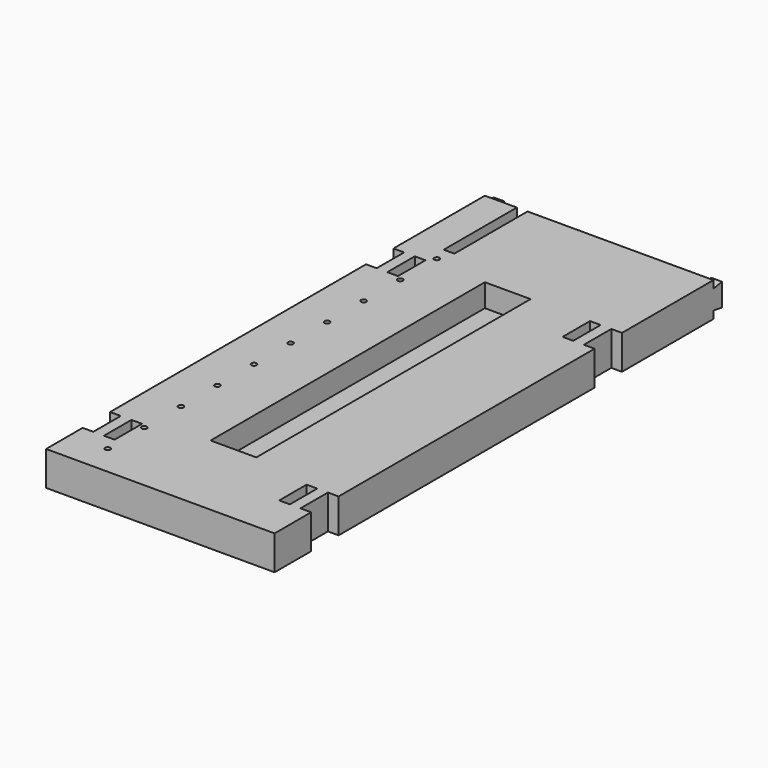
from build123d import *

# Parameters (mm, degrees)
F0_W      = 762
F0_H      = 1828.8
F1_DEPTH  = 114.3
F2_W      = 35.56
F2_H      = 114.3
F3_DEPTH  = 114.3
F4_W      = 152.4
F4_H      = 1143
F5_DEPTH  = 76.2
F6_W      = 35.56
F6_H      = 304.8
F7_DEPTH  = 114.3
F9_DEPTH  = 35.56
F11_DEPTH = 35.56
F12_R     = 8.73125
F13_DEPTH = 114.3


with BuildPart() as f1:
    # F0 (on Top) → F1 (new body)
    with BuildSketch(Plane.XY):
        Rectangle(F0_W, F0_H)
    extrude(amount=F1_DEPTH)

    # F2 (on face) → F3 (cut, through all)
    with BuildSketch(Plane.XY.offset(114.3)):
        with Locations((-292.1, 476.25)):
            Rectangle(F2_W, F2_H)
        with Locations((292.1, 476.25)):
            Rectangle(F2_W, F2_H)
        with Locations((-292.1, -704.85)):
            Rectangle(F2_W, F2_H)
        with Locations((292.1, -704.85)):
            Rectangle(F2_W, F2_H)
        with Locations((-363.22, 476.25)):
            Rectangle(F2_W, F2_H)
        with Locations((-363.22, -704.85)):
            Rectangle(F2_W, F2_H)
        with Locations((363.22, 476.25)):
            Rectangle(F2_W, F2_H)
        with Locations((363.22, -704.85)):
            Rectangle(F2_W, F2_H)
    extrude(amount=-F3_DEPTH, mode=Mode.SUBTRACT)

    # F4 (on face) → F5 (cut)
    with BuildSketch(Plane.XY.offset(114.3)):
        with Locations((0, -38.1)):
            Rectangle(F4_W, F4_H)
    extrude(amount=-F5_DEPTH, mode=Mode.SUBTRACT)

    # F6 (on face) → F7 (cut, through all)
    with BuildSketch(Plane.XY.offset(114.3)):
        with Locations((-256.54, 762)):
            Rectangle(F6_W, F6_H)
    extrude(amount=-F7_DEPTH, mode=Mode.SUBTRACT)

    # F8 (on face) → F9 (join)
    with BuildSketch(Plane(origin=(-381, 0, 0), x_dir=(0, -1, 0), z_dir=(-1, 0, 0))):
        Polygon((-914.4, 25.4), (-914.4, 88.9), (-949.96, 95.170187), (-949.96, 19.129813), align=None)
    extrude(amount=-F9_DEPTH)

    # F10 (on face) → F11 (join)
    with BuildSketch(Plane.YZ.offset(381)):
        Polygon((949.96, 95.170187), (914.4, 88.9), (914.4, 25.4), (949.96, 19.129813), align=None)
    extrude(amount=-F11_DEPTH)

    # F12 (on face) → F13 (cut, through all)
    with BuildSketch(Plane.XY.offset(114.3)):
        with Locations((-256.54, 558.8)):
            Circle(F12_R)
        with Locations((-256.54, 406.4)):
            Circle(F12_R)
        with Locations((-256.54, 254)):
            Circle(F12_R)
        with Locations((-256.54, 101.6)):
            Circle(F12_R)
        with Locations((-256.54, -50.8)):
            Circle(F12_R)
        with Locations((-256.54, -203.2)):
            Circle(F12_R)
        with Locations((-256.54, -355.6)):
            Circle(F12_R)
        with Locations((-256.54, -508)):
            Circle(F12_R)
        with Locations((-256.54, -660.4)):
            Circle(F12_R)
        with Locations((-256.54, -812.8)):
            Circle(F12_R)
    extrude(amount=-F13_DEPTH, mode=Mode.SUBTRACT)


solid = f1.part
